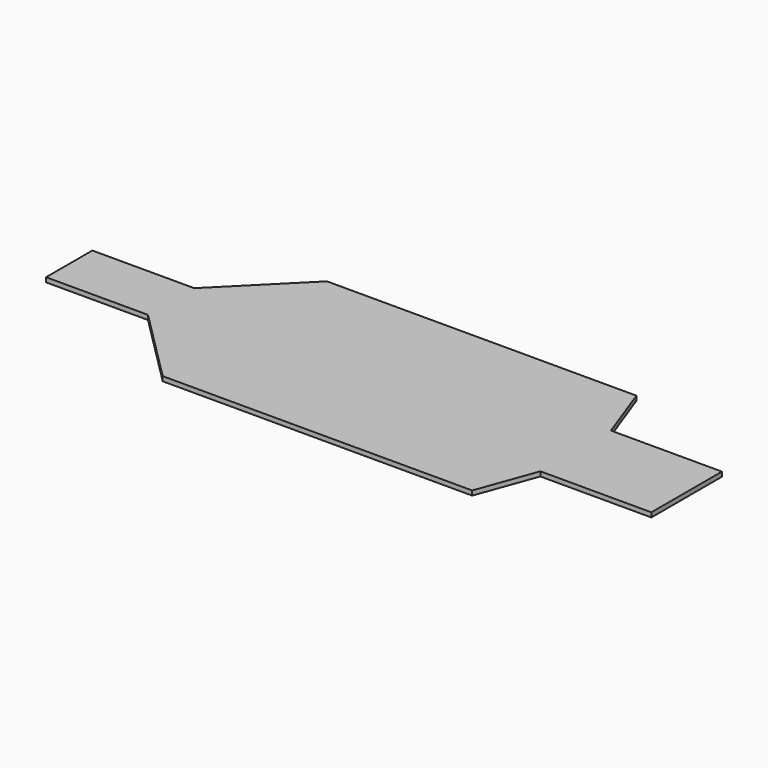
from build123d import *

# Parameters (mm, degrees)
F0_W     = 203.487146
F0_H     = 135
F0_W_2   = 67
F0_H_2   = 38
F0_W_3   = 73
F0_H_3   = 58
F1_DEPTH = 3


with BuildPart() as f1:
    # F0 (on Top) → F1 (new body)
    with BuildSketch(Plane.XY):
        Polygon((-136, -19), (-87.5, -67.5), (-87.5, 67.5), (-136, 19), align=None)
        with Locations((14.243573, 0)):
            Rectangle(F0_W, F0_H)
        with Locations((-169.5, 0)):
            Rectangle(F0_W_2, F0_H_2)
        Polygon((115.987146, 67.5), (115.987146, -67.5), (130, -29), (130, 29), align=None)
        with Locations((166.5, 0)):
            Rectangle(F0_W_3, F0_H_3)
    extrude(amount=F1_DEPTH)


solid = f1.part
